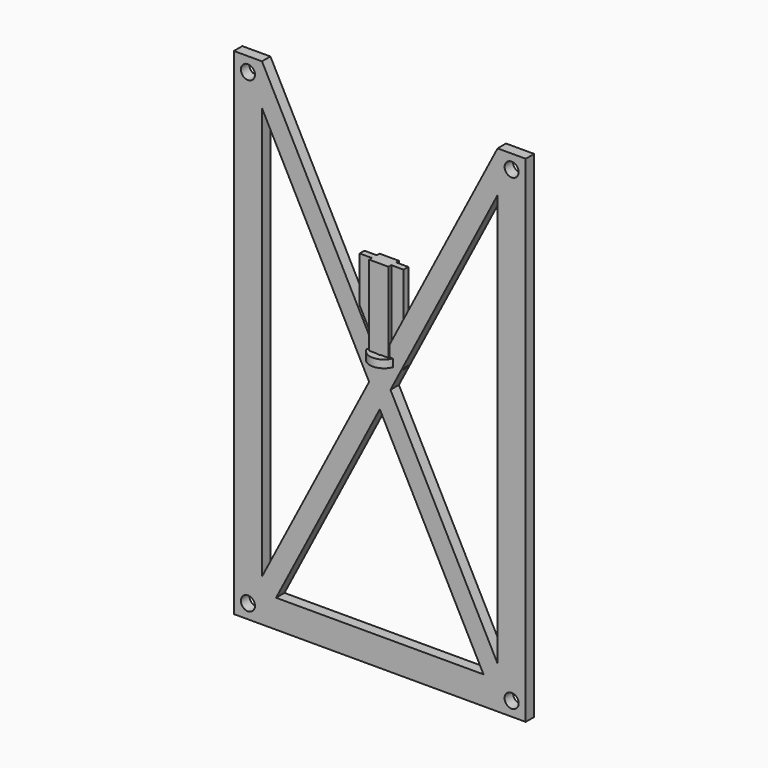
from build123d import *

# Parameters (mm, degrees)
F1_DEPTH = 25
F2_R     = 2
F3_DEPTH = 1.5
F4_R     = 4
F4_R_2   = 2
F5_DEPTH = 2.2


with BuildPart() as f1:
    # F0 (on Top) → F1 (new body)
    with BuildSketch(Plane.XY):
        Polygon((-6.25, 0.85), (-6.25, -0.85), (-2.75, -0.85), (-2.75, -1.85), (2.75, -1.85), (2.75, -0.85), (6.25, -0.85), (6.25, 0.85), (2.75, 0.85), (2.75, 1.85), (-2.75, 1.85), (-2.75, 0.85), align=None)
    extrude(amount=F1_DEPTH)


with BuildPart() as f3:
    # F2 (on Front) → F3 (new body, symmetric)
    with BuildSketch(Plane.XZ):
        Polygon((3.0387596899, -5.8507462687), (0, 0), (-3.0387596899, -5.8507462687), (0, -11.7014925373), align=None)
        Polygon((0, 0), (-33.5, 64.5), (-33.5, 52.7985074627), (-3.0387596899, -5.8507462687), align=None)
        Polygon((33.5, -64.5), (3.0387596899, -5.8507462687), (0, -11.7014925373), (29.5, -68.5), (33.5, -68.5), align=None)
        Polygon((33.5, 52.7985074627), (33.5, 64.5), (0, 0), (3.0387596899, -5.8507462687), align=None)
        Polygon((-3.0387596899, -5.8507462687), (-33.5, -64.5), (-33.5, -68.5), (-29.5, -68.5), (0, -11.7014925373), align=None)
        Polygon((-41.5, 64.5), (-41.5, -76.5), (41.5, -76.5), (41.5, 64.5), (33.5, 64.5), (33.5, 52.7985074627), (33.5, -64.5), (33.5, -68.5), (29.5, -68.5), (-29.5, -68.5), (-33.5, -68.5), (-33.5, -64.5), (-33.5, 52.7985074627), (-33.5, 64.5), align=None)
        with Locations((-37.5, -72.5)):
            Circle(F2_R, mode=Mode.SUBTRACT)
        with Locations((37.5, -72.5)):
            Circle(F2_R, mode=Mode.SUBTRACT)
        with Locations((-37.5, 60.5)):
            Circle(F2_R, mode=Mode.SUBTRACT)
        with Locations((37.5, 60.5)):
            Circle(F2_R, mode=Mode.SUBTRACT)
    extrude(amount=F3_DEPTH, both=True)


with BuildPart() as f5:
    # F4 (on Top) → F5 (new body)
    with BuildSketch(Plane.XY):
        Circle(F4_R)
        Circle(F4_R_2, mode=Mode.SUBTRACT)
    extrude(amount=F5_DEPTH)


solid = Compound([f1.part, f3.part, f5.part])
